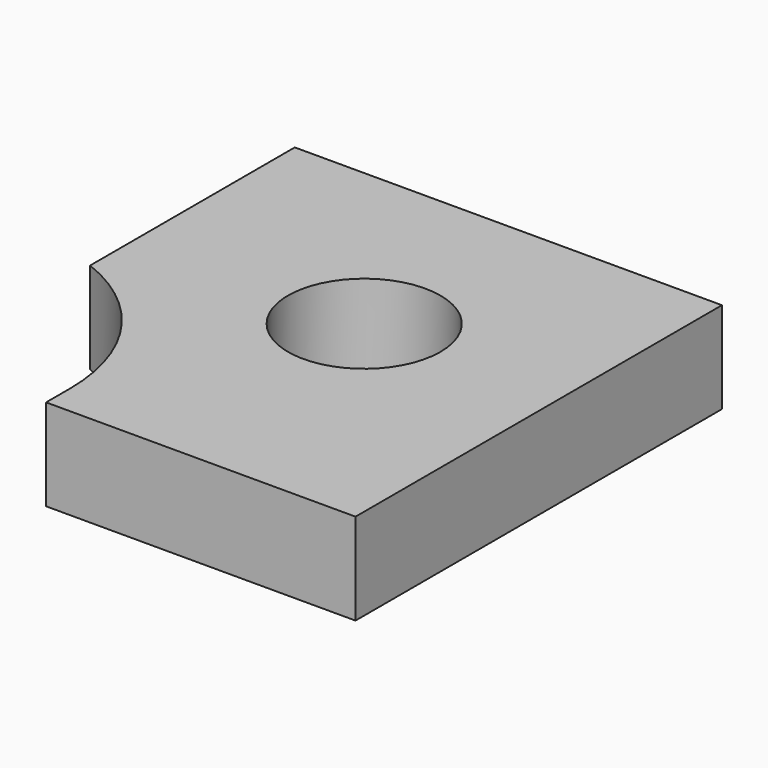
from build123d import *

# Parameters (mm, degrees)
SKETCH_R      = 2.5
EXTRUDE_DEPTH = 3


with BuildPart() as part:
    # Sketch → Extrude (new body)
    with BuildSketch(Plane.XY):
        with BuildLine():
            Line((-7.495407, 14.040454), (6.508806, 14.040454))
            Line((6.508806, 14.040454), (6.508806, 0))
            Line((6.508806, 0), (6.508806, -0.974619))
            Line((6.508806, -0.974619), (-3.635789, -0.974619))
            Line((-3.635789, 0), (-3.635789, -0.974619))
            ThreePointArc((-3.635789, 0), (-4.692641, 3.423621), (-7.495407, 5.6558))
            Line((-7.495407, 5.6558), (-7.495407, 14.040454))
        make_face()
        with Locations((0, 7.517769)):
            Circle(SKETCH_R, mode=Mode.SUBTRACT)
    extrude(amount=EXTRUDE_DEPTH)


solid = part.part
